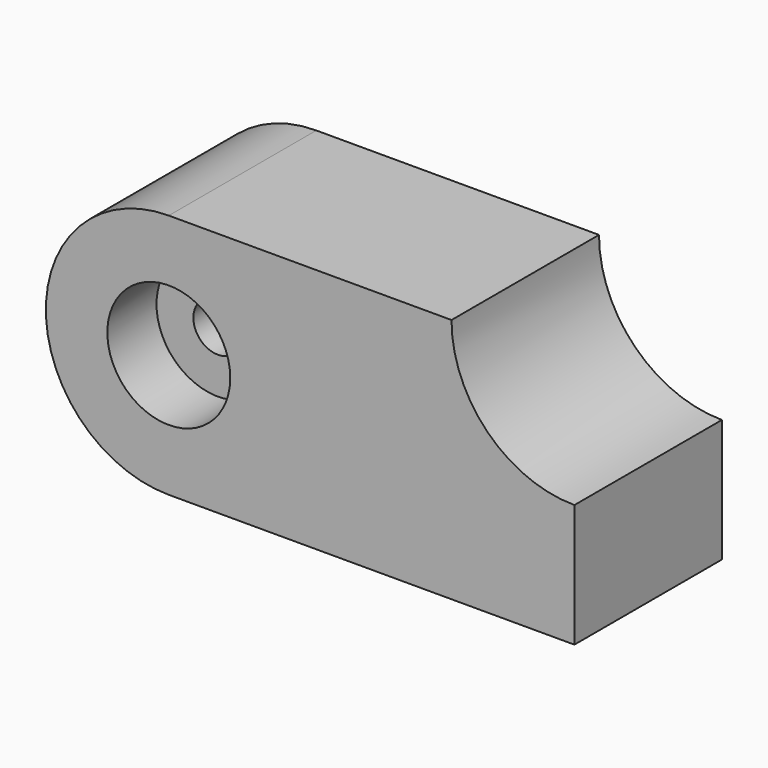
from build123d import *

# Parameters (mm, degrees)
F1_DEPTH = 47.625
F2_R     = 15.875
F3_DEPTH = 15.875
F4_R     = 6.35
F5_DEPTH = 34.29


with BuildPart() as f1:
    # F0 (on Front) → F1 (new body)
    with BuildSketch(Plane.XZ):
        with BuildLine():
            ThreePointArc((-52.3875, 31.75), (-84.1375, 0), (-52.3875, -31.75))
            Line((-52.3875, -31.75), (52.3875, -31.75))
            Line((52.3875, -31.75), (52.3875, 0))
            ThreePointArc((52.3875, 0), (29.93686, 9.29936), (20.6375, 31.75))
            Line((20.6375, 31.75), (-52.3875, 31.75))
        make_face()
    extrude(amount=F1_DEPTH)

    # F2 (on face) → F3 (cut)
    with BuildSketch(Plane.XZ.offset(47.625)):
        with Locations((-52.3875, 0)):
            Circle(F2_R)
    extrude(amount=-F3_DEPTH, mode=Mode.SUBTRACT)

    # F4 (on face) → F5 (cut)
    with BuildSketch(Plane.XZ.offset(31.75)):
        with Locations((-52.3875, 0)):
            Circle(F4_R)
    extrude(amount=-F5_DEPTH, mode=Mode.SUBTRACT)


solid = f1.part
